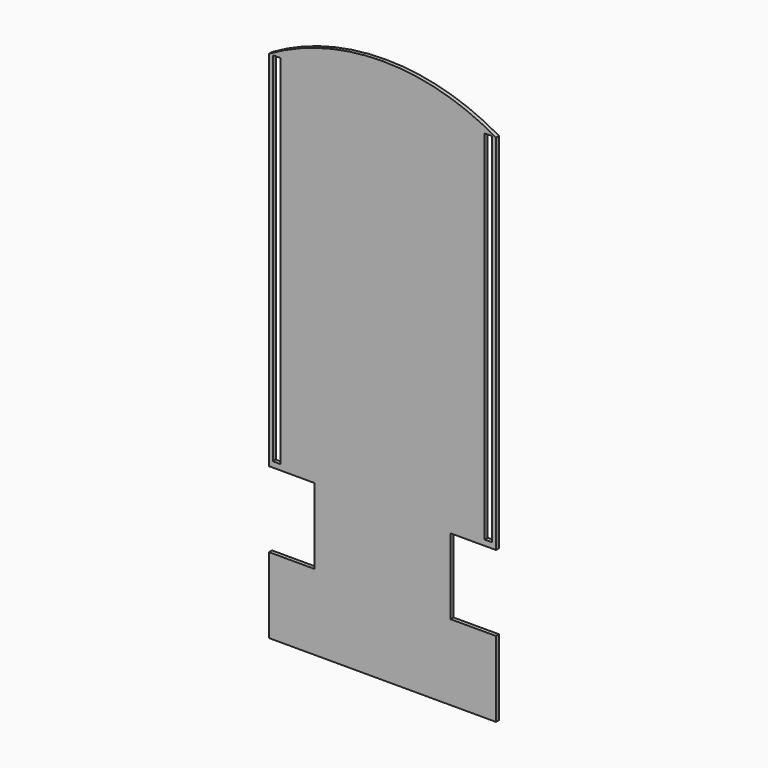
from build123d import *

# Parameters (mm, degrees)
F0_W     = 25.4
F0_H     = 1200.521819
F1_DEPTH = 12.7


with BuildPart() as f1:
    # F0 (on Front) → F1 (new body)
    with BuildSketch(Plane.XZ):
        with BuildLine():
            Line((336.91021, -1219.002859), (336.91021, 0.197141))
            ThreePointArc((336.91021, 0.197141), (153.130322, 76.321263), (-44.08979, 102.285783))
            ThreePointArc((-44.08979, 102.285783), (-241.309903, 76.321263), (-425.08979, 0.197141))
            Line((-425.08979, 0.197141), (-425.08979, -1219.002859))
            Line((-425.08979, -1219.002859), (-272.68979, -1219.002859))
            Line((-272.68979, -1219.002859), (-272.68979, -1473.002859))
            Line((-272.68979, -1473.002859), (-425.08979, -1473.002859))
            Line((-425.08979, -1473.002859), (-425.08979, -1727.002859))
            Line((-425.08979, -1727.002859), (336.91021, -1727.002859))
            Line((336.91021, -1727.002859), (336.91021, -1473.002859))
            Line((336.91021, -1473.002859), (184.51021, -1473.002859))
            Line((184.51021, -1473.002859), (184.51021, -1219.002859))
            Line((184.51021, -1219.002859), (336.91021, -1219.002859))
        make_face()
        with Locations((-399.68979, -600.063768)):
            Rectangle(F0_W, F0_H, mode=Mode.SUBTRACT)
        with Locations((311.51021, -600.063768)):
            Rectangle(F0_W, F0_H, mode=Mode.SUBTRACT)
    extrude(amount=F1_DEPTH)


solid = f1.part
